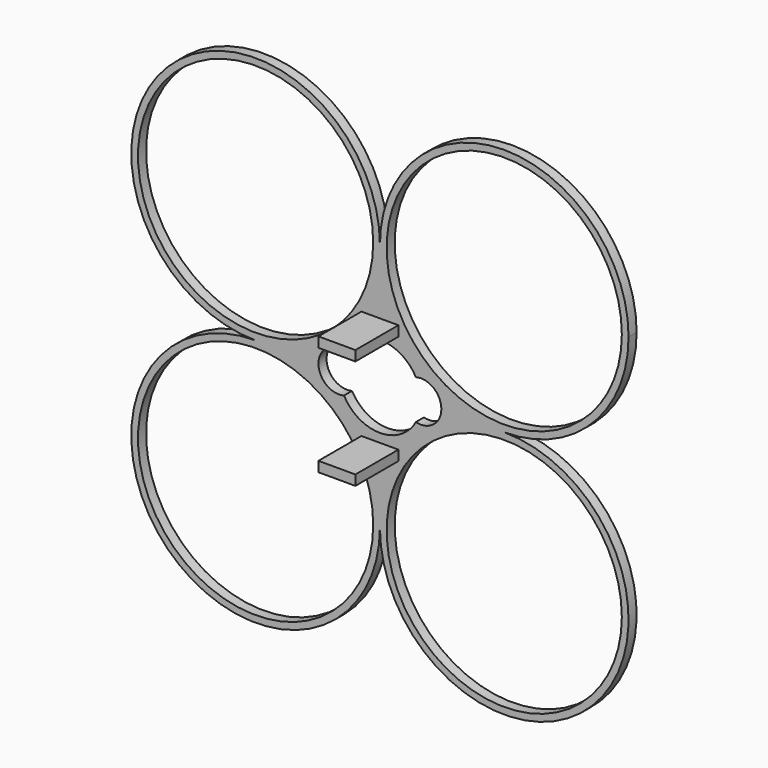
from build123d import *

# Parameters (mm, degrees)
F1_DEPTH = 1.5
F2_R     = 17.5
F3_DEPTH = 1.501
F4_W     = 2.75
F4_H     = 1.5
F5_DEPTH = 8
F7_DEPTH = 1.501


with BuildPart() as f1:
    # F0 (on Front) → F1 (new body)
    with BuildSketch(Plane.XZ):
        with BuildLine():
            ThreePointArc((-25.8904117895, 42.4818245173), (-38.971887268, 10.9003490722), (-7.3904118091, 23.9818245173))
            ThreePointArc((-7.3904118091, 23.9818245173), (-12.8089363502, 37.0632999623), (-25.8904117895, 42.4818245173))
        make_face()
        with BuildLine():
            ThreePointArc((11.1095881909, 42.4818245173), (-1.971887261, 37.0632999692), (-7.3904118091, 23.9818245173))
            ThreePointArc((-7.3904118091, 23.9818245173), (11.1095881909, 5.4818245173), (29.6095881909, 23.9818245173))
            ThreePointArc((29.6095881909, 23.9818245173), (24.1910636429, 37.0632999692), (11.1095881909, 42.4818245173))
        make_face()
        with BuildLine():
            ThreePointArc((-25.8904117895, 42.4818245173), (-12.8089363502, 37.0632999623), (-7.3904118091, 23.9818245173))
            ThreePointArc((-7.3904118091, 23.9818245173), (-1.971887261, 37.0632999692), (11.1095881909, 42.4818245173))
            ThreePointArc((11.1095881909, 42.4818245173), (-1.971887261, 47.9003490653), (-7.3904118091, 60.9818245173))
            ThreePointArc((-7.3904118091, 60.9818245173), (-12.8089363502, 47.9003490722), (-25.8904117895, 42.4818245173))
        make_face()
        with BuildLine():
            ThreePointArc((-7.3904118091, 60.9818245173), (-38.971887268, 74.0632999623), (-25.8904117895, 42.4818245173))
            ThreePointArc((-25.8904117895, 42.4818245173), (-12.8089363502, 47.9003490722), (-7.3904118091, 60.9818245173))
        make_face()
        with BuildLine():
            ThreePointArc((-7.3904118091, 60.9818245173), (-1.971887261, 47.9003490653), (11.1095881909, 42.4818245173))
            ThreePointArc((11.1095881909, 42.4818245173), (24.1910636429, 47.9003490653), (29.6095881909, 60.9818245173))
            ThreePointArc((29.6095881909, 60.9818245173), (11.1095881909, 79.4818245173), (-7.3904118091, 60.9818245173))
        make_face()
    extrude(amount=F1_DEPTH)

    # F2 (on face) → F3 (cut, through all)
    with BuildSketch(Plane.XZ.offset(1.5)):
        with Locations((-25.8904118091, 60.9818245173)):
            Circle(F2_R)
        with Locations((-25.8904118091, 23.9818245173)):
            Circle(F2_R)
        with Locations((11.1095881909, 60.9818245173)):
            Circle(F2_R)
        with Locations((11.1095881909, 23.9818245173)):
            Circle(F2_R)
    extrude(amount=-F3_DEPTH, mode=Mode.SUBTRACT)

    # F4 (on face) → F5 (join)
    with BuildSketch(Plane.XZ.offset(1.5)):
        with Locations((-6.0154118091, 34.3318245173)):
            Rectangle(F4_W, F4_H)
        with Locations((-8.7654118091, 34.3318245173)):
            Rectangle(F4_W, F4_H)
        with Locations((-8.7654118091, 50.6318245173)):
            Rectangle(F4_W, F4_H)
        with Locations((-6.0154118091, 50.6318245173)):
            Rectangle(F4_W, F4_H)
    extrude(amount=F5_DEPTH)

    # F6 (on face) → F7 (cut, through all)
    with BuildSketch(Plane.XZ.offset(1.5)):
        with BuildLine():
            ThreePointArc((-12.7348604006, 45.4258701055), (-16.5319645782, 42.4818245173), (-12.7348604006, 39.537778929))
            ThreePointArc((-12.7348604006, 39.537778929), (-7.3893052189, 36.3801416389), (-2.0448957156, 39.5397176417))
            ThreePointArc((-2.0448957156, 39.5397176417), (1.7489974946, 42.4818245173), (-2.0448957156, 45.4239313928))
            ThreePointArc((-2.0448957156, 45.4239313928), (-7.3893052189, 48.5835073956), (-12.7348604006, 45.4258701055))
        make_face()
    extrude(amount=-F7_DEPTH, mode=Mode.SUBTRACT)


solid = f1.part
